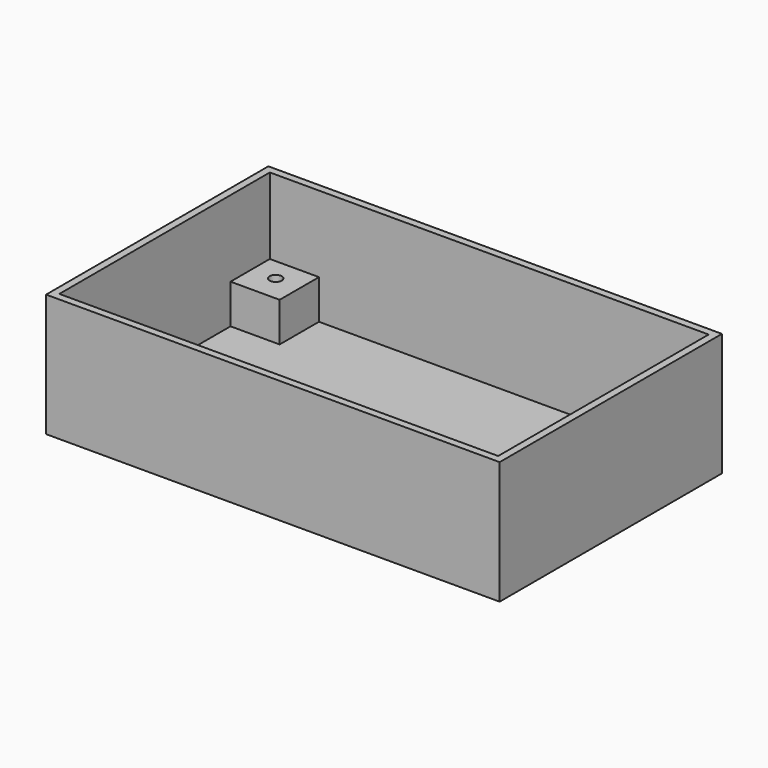
from build123d import *

# Parameters (mm, degrees)
F0_W     = 92.291318
F0_H     = 56.53172
F1_DEPTH = 25
F2_T     = -1.5
F3_W     = 10
F3_H     = 10
F4_DEPTH = 8
F5_R     = 1.232119
F6_DEPTH = 6


with BuildPart() as f1:
    # F0 (on Top) → F1 (new body)
    with BuildSketch(Plane.XY):
        Rectangle(F0_W, F0_H)
    extrude(amount=F1_DEPTH)

    # F2
    f2_openings = [f1.faces().sort_by_distance(p)[0] for p in [
        (0, 0, 25),
    ]]
    offset(amount=F2_T, openings=f2_openings)

    # F3 (on face) → F4 (join)
    with BuildSketch(Plane.XY.offset(1.5)):
        with Locations((-39.645659, 21.76586)):
            Rectangle(F3_W, F3_H)
    extrude(amount=F4_DEPTH)

    # F5 (on face) → F6 (cut)
    with BuildSketch(Plane.XY.offset(9.5)):
        with Locations((-39.731406, 22.114344)):
            Circle(F5_R)
    extrude(amount=-F6_DEPTH, mode=Mode.SUBTRACT)


solid = f1.part
